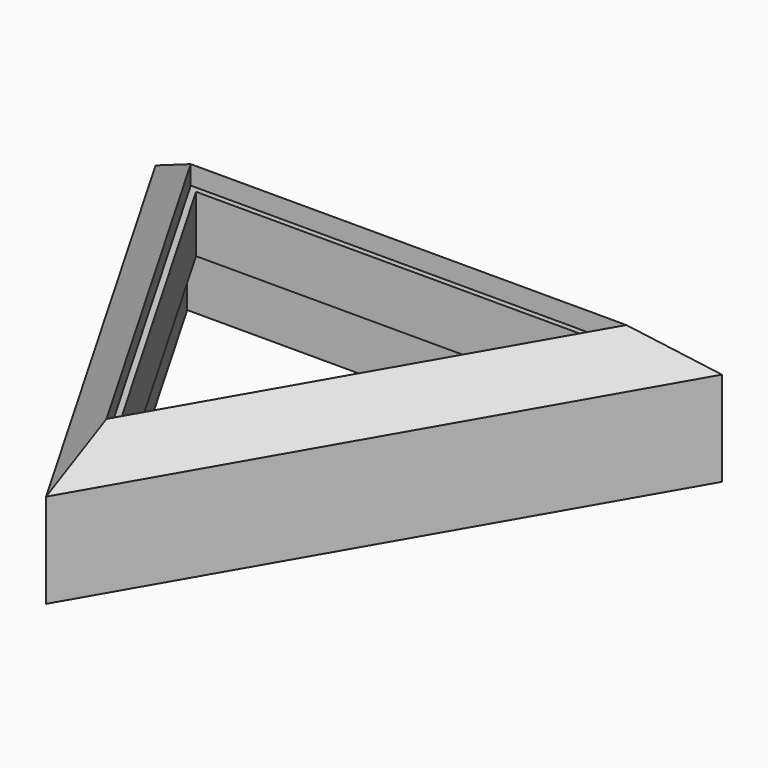
from build123d import *

# Parameters (mm, degrees)
F1_DEPTH = 5
F6_DEPTH = 1
F8_DEPTH = 3
F9_DEPTH = 3


with BuildPart() as f1:
    # F0 (on Top) → F1 (new body)
    with BuildSketch(Plane.XY):
        Polygon((15, 0), (-15, 0), (0, -26), align=None)
    extrude(amount=F1_DEPTH)

    # F1_face (on face) → F4 section 0
    with BuildSketch(Plane(origin=(0, -8.6666666667, 5), x_dir=(1, 0, 0), z_dir=(0, 0, 1))):
        Polygon((15, 8.6666666667), (-15, 8.6666666667), (0, -17.3333333333), align=None)
    # F3 (on offset) → F4 section 1
    with BuildSketch(Plane.XY.offset(7)):
        Polygon((0, -21.9977783947), (11.5371798431, -2), (-11.5371798431, -2), align=None)
    loft()

    # F6 (cut): a face of the model
    f6_faces = [f1.faces().sort_by_distance(p)[0] for p in [
        (0, -8.6659261316, 7),
    ]]
    extrude(f6_faces, amount=-F6_DEPTH, mode=Mode.SUBTRACT)

    # F7 (on face) → F8 (cut)
    with BuildSketch(Plane.XY.offset(6)):
        Polygon((0, -21.3974451539), (11.0177568196, -2.3), (-11.0177568196, -2.3), align=None)
    extrude(amount=-F8_DEPTH, mode=Mode.SUBTRACT)

    # F5 (on face) → F9 (cut, through all)
    with BuildSketch(Plane(origin=(0, 0, 0), x_dir=(1, 0, 0), z_dir=(0, 0, -1))):
        Polygon((0, 22.3980005552), (-11.8834618588, 1.8), (11.8834618588, 1.8), align=None)
    extrude(amount=-F9_DEPTH, mode=Mode.SUBTRACT)


solid = f1.part
